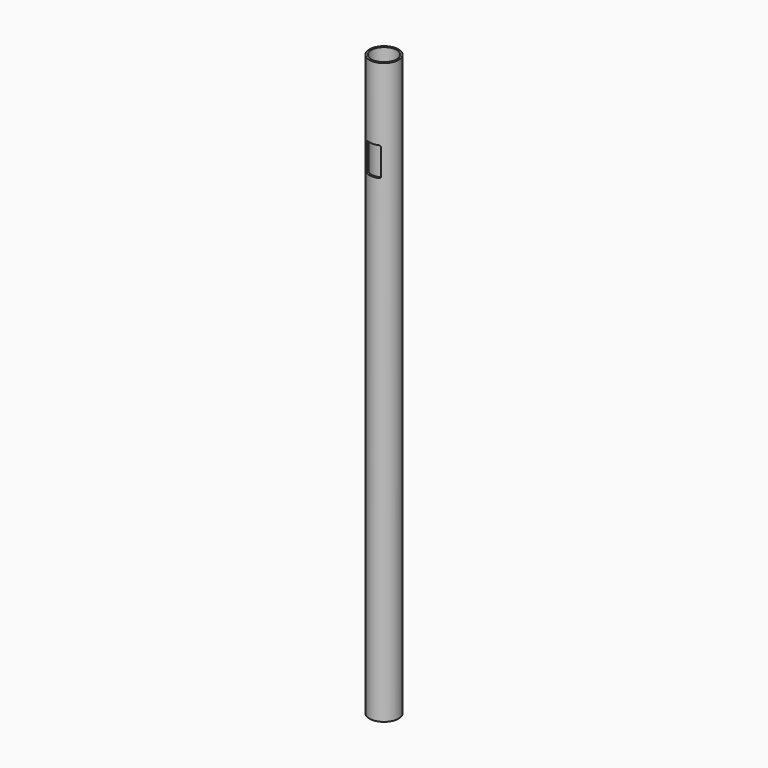
from build123d import *

# Parameters (mm, degrees)
F0_R     = 12.7
F0_R_2   = 11.1125
F1_DEPTH = 254
F3_DEPTH = 25.4


with BuildPart() as f1:
    # F0 (on Top) → F1 (new body, symmetric)
    with BuildSketch(Plane.XY):
        Circle(F0_R)
        Circle(F0_R_2, mode=Mode.SUBTRACT)
    extrude(amount=F1_DEPTH, both=True)

    # F2 (on Front) → F3 (cut)
    with BuildSketch(Plane.XZ):
        with BuildLine():
            Line((4.699, 190.5), (-4.699, 190.5))
            ThreePointArc((-4.699, 190.5), (-5.866433, 190.016433), (-6.35, 188.849))
            Line((-6.35, 188.849), (-6.35, 166.751))
            ThreePointArc((-6.35, 166.751), (-5.866433, 165.583567), (-4.699, 165.1))
            Line((-4.699, 165.1), (4.699, 165.1))
            ThreePointArc((4.699, 165.1), (5.866433, 165.583567), (6.35, 166.751))
            Line((6.35, 166.751), (6.35, 188.849))
            ThreePointArc((6.35, 188.849), (5.866433, 190.016433), (4.699, 190.5))
        make_face()
    extrude(amount=F3_DEPTH, mode=Mode.SUBTRACT)


solid = f1.part
